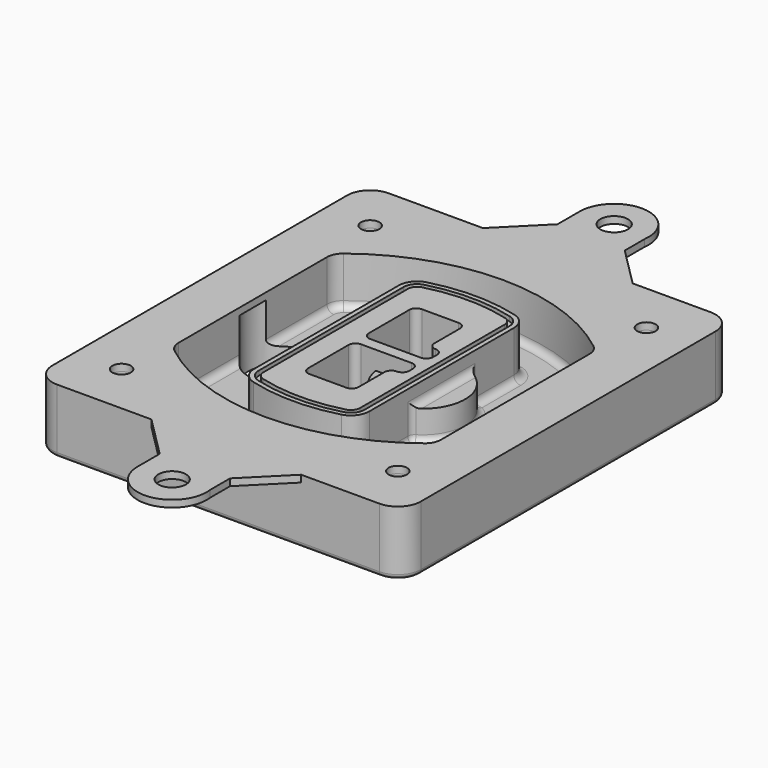
from build123d import *

# Parameters (mm, degrees)
F0_R      = 4
F1_DEPTH  = 25
F2_DEPTH  = 3
F3_DEPTH  = 18
F5_DEPTH  = 21
F6_DEPTH  = 2
F8_DEPTH  = 20
F9_DEPTH  = 16
F10_DEPTH = 25
F7_R      = 6
F7_R_2    = 4
F11_DEPTH = 6
F13_DEPTH = 9
F14_R     = 3
F15_R     = 2
F16_R     = 6
F16_R_2   = 4
F17_DEPTH = 3


with BuildPart() as f1:
    # F0 (on Top) → F1 (new body)
    with BuildSketch(Plane.XY):
        with BuildLine():
            ThreePointArc((-80, -80), (-77.0710678119, -87.0710678119), (-70, -90))
            Line((-70, -90), (70, -90))
            ThreePointArc((70, -90), (77.0710678119, -87.0710678119), (80, -80))
            Line((80, -80), (80, 80))
            ThreePointArc((80, 80), (77.0710678119, 87.0710678119), (70, 90))
            Line((70, 90), (-70, 90))
            ThreePointArc((-70, 90), (-77.0710678119, 87.0710678119), (-80, 80))
            Line((-80, 80), (-80, -80))
        make_face()
        with Locations((-60, -67.5)):
            Circle(F0_R, mode=Mode.SUBTRACT)
        with Locations((60, -67.5)):
            Circle(F0_R, mode=Mode.SUBTRACT)
        with Locations((-60, 67.5)):
            Circle(F0_R, mode=Mode.SUBTRACT)
        with BuildLine():
            ThreePointArc((-64, 40.2934422872), (-62.5820384798, 46.4328484224), (-58.6153846154, 51.3286200352))
            ThreePointArc((-58.6153846154, 51.3286200352), (0, 71.5), (58.6153846154, 51.3286200352))
            ThreePointArc((58.6153846154, 51.3286200352), (62.5820384798, 46.4328484224), (64, 40.2934422872))
            Line((64, 40.2934422872), (64, -40.2934422872))
            ThreePointArc((64, -40.2934422872), (62.5820384798, -46.4328484224), (58.6153846154, -51.3286200352))
            ThreePointArc((58.6153846154, -51.3286200352), (0, -71.5), (-58.6153846154, -51.3286200352))
            ThreePointArc((-58.6153846154, -51.3286200352), (-62.5820384798, -46.4328484224), (-64, -40.2934422872))
            Line((-64, -40.2934422872), (-64, 40.2934422872))
        make_face(mode=Mode.SUBTRACT)
        with Locations((60, 67.5)):
            Circle(F0_R, mode=Mode.SUBTRACT)
        with BuildLine():
            ThreePointArc((58.6153846154, 51.3286200352), (0, 71.5), (-58.6153846154, 51.3286200352))
            ThreePointArc((-58.6153846154, 51.3286200352), (-62.5820384798, 46.4328484224), (-64, 40.2934422872))
            Line((-64, 40.2934422872), (-64, -40.2934422872))
            ThreePointArc((-64, -40.2934422872), (-62.5820384798, -46.4328484224), (-58.6153846154, -51.3286200352))
            ThreePointArc((-58.6153846154, -51.3286200352), (0, -71.5), (58.6153846154, -51.3286200352))
            ThreePointArc((58.6153846154, -51.3286200352), (62.5820384798, -46.4328484224), (64, -40.2934422872))
            Line((64, -40.2934422872), (64, 40.2934422872))
            ThreePointArc((64, 40.2934422872), (62.5820384798, 46.4328484224), (58.6153846154, 51.3286200352))
        make_face()
        with BuildLine():
            Line((-60, -40.2934422872), (-60, 40.2934422872))
            ThreePointArc((-60, 40.2934422872), (-58.9871703427, 44.6787323838), (-56.1538461538, 48.1757121072))
            ThreePointArc((-56.1538461538, 48.1757121072), (0, 67.5), (56.1538461538, 48.1757121072))
            ThreePointArc((56.1538461538, 48.1757121072), (58.9871703427, 44.6787323838), (60, 40.2934422872))
            Line((60, 40.2934422872), (60, -40.2934422872))
            ThreePointArc((60, -40.2934422872), (58.9871703427, -44.6787323838), (56.1538461538, -48.1757121072))
            ThreePointArc((56.1538461538, -48.1757121072), (0, -67.5), (-56.1538461538, -48.1757121072))
            ThreePointArc((-56.1538461538, -48.1757121072), (-58.9871703427, -44.6787323838), (-60, -40.2934422872))
        make_face(mode=Mode.SUBTRACT)
        with BuildLine():
            ThreePointArc((-56.1538461538, 48.1757121072), (-58.9871703427, 44.6787323838), (-60, 40.2934422872))
            Line((-60, 40.2934422872), (-60, -40.2934422872))
            ThreePointArc((-60, -40.2934422872), (-58.9871703427, -44.6787323838), (-56.1538461538, -48.1757121072))
            ThreePointArc((-56.1538461538, -48.1757121072), (0, -67.5), (56.1538461538, -48.1757121072))
            ThreePointArc((56.1538461538, -48.1757121072), (58.9871703427, -44.6787323838), (60, -40.2934422872))
            Line((60, -40.2934422872), (60, 40.2934422872))
            ThreePointArc((60, 40.2934422872), (58.9871703427, 44.6787323838), (56.1538461538, 48.1757121072))
            ThreePointArc((56.1538461538, 48.1757121072), (0, 67.5), (-56.1538461538, 48.1757121072))
        make_face()
        with BuildLine():
            ThreePointArc((54.3076923077, 45.8110311612), (56.2910192399, 43.3631453548), (57, 40.2934422872))
            Line((57, 40.2934422872), (57, -40.2934422872))
            ThreePointArc((57, -40.2934422872), (56.2910192399, -43.3631453548), (54.3076923077, -45.8110311612))
            ThreePointArc((54.3076923077, -45.8110311612), (0, -64.5), (-54.3076923077, -45.8110311612))
            ThreePointArc((-54.3076923077, -45.8110311612), (-56.2910192399, -43.3631453548), (-57, -40.2934422872))
            Line((-57, -40.2934422872), (-57, 40.2934422872))
            ThreePointArc((-57, 40.2934422872), (-56.2910192399, 43.3631453548), (-54.3076923077, 45.8110311612))
            ThreePointArc((-54.3076923077, 45.8110311612), (0, 64.5), (54.3076923077, 45.8110311612))
        make_face(mode=Mode.SUBTRACT)
        with BuildLine():
            Line((57, -40.2934422872), (57, 40.2934422872))
            ThreePointArc((57, 40.2934422872), (56.2910192399, 43.3631453548), (54.3076923077, 45.8110311612))
            ThreePointArc((54.3076923077, 45.8110311612), (0, 64.5), (-54.3076923077, 45.8110311612))
            ThreePointArc((-54.3076923077, 45.8110311612), (-56.2910192399, 43.3631453548), (-57, 40.2934422872))
            Line((-57, 40.2934422872), (-57, -40.2934422872))
            ThreePointArc((-57, -40.2934422872), (-56.2910192399, -43.3631453548), (-54.3076923077, -45.8110311612))
            ThreePointArc((-54.3076923077, -45.8110311612), (0, -64.5), (54.3076923077, -45.8110311612))
            ThreePointArc((54.3076923077, -45.8110311612), (56.2910192399, -43.3631453548), (57, -40.2934422872))
        make_face()
    extrude(amount=-F1_DEPTH)

    # F0 (on Top) → F2 (join)
    with BuildSketch(Plane.XY):
        with BuildLine():
            ThreePointArc((-56.1538461538, 48.1757121072), (-58.9871703427, 44.6787323838), (-60, 40.2934422872))
            Line((-60, 40.2934422872), (-60, -40.2934422872))
            ThreePointArc((-60, -40.2934422872), (-58.9871703427, -44.6787323838), (-56.1538461538, -48.1757121072))
            ThreePointArc((-56.1538461538, -48.1757121072), (0, -67.5), (56.1538461538, -48.1757121072))
            ThreePointArc((56.1538461538, -48.1757121072), (58.9871703427, -44.6787323838), (60, -40.2934422872))
            Line((60, -40.2934422872), (60, 40.2934422872))
            ThreePointArc((60, 40.2934422872), (58.9871703427, 44.6787323838), (56.1538461538, 48.1757121072))
            ThreePointArc((56.1538461538, 48.1757121072), (0, 67.5), (-56.1538461538, 48.1757121072))
        make_face()
        with BuildLine():
            ThreePointArc((54.3076923077, 45.8110311612), (56.2910192399, 43.3631453548), (57, 40.2934422872))
            Line((57, 40.2934422872), (57, -40.2934422872))
            ThreePointArc((57, -40.2934422872), (56.2910192399, -43.3631453548), (54.3076923077, -45.8110311612))
            ThreePointArc((54.3076923077, -45.8110311612), (0, -64.5), (-54.3076923077, -45.8110311612))
            ThreePointArc((-54.3076923077, -45.8110311612), (-56.2910192399, -43.3631453548), (-57, -40.2934422872))
            Line((-57, -40.2934422872), (-57, 40.2934422872))
            ThreePointArc((-57, 40.2934422872), (-56.2910192399, 43.3631453548), (-54.3076923077, 45.8110311612))
            ThreePointArc((-54.3076923077, 45.8110311612), (0, 64.5), (54.3076923077, 45.8110311612))
        make_face(mode=Mode.SUBTRACT)
    extrude(amount=F2_DEPTH)

    # F0 (on Top) → F3 (cut)
    with BuildSketch(Plane.XY):
        with BuildLine():
            Line((57, -40.2934422872), (57, 40.2934422872))
            ThreePointArc((57, 40.2934422872), (56.2910192399, 43.3631453548), (54.3076923077, 45.8110311612))
            ThreePointArc((54.3076923077, 45.8110311612), (0, 64.5), (-54.3076923077, 45.8110311612))
            ThreePointArc((-54.3076923077, 45.8110311612), (-56.2910192399, 43.3631453548), (-57, 40.2934422872))
            Line((-57, 40.2934422872), (-57, -40.2934422872))
            ThreePointArc((-57, -40.2934422872), (-56.2910192399, -43.3631453548), (-54.3076923077, -45.8110311612))
            ThreePointArc((-54.3076923077, -45.8110311612), (0, -64.5), (54.3076923077, -45.8110311612))
            ThreePointArc((54.3076923077, -45.8110311612), (56.2910192399, -43.3631453548), (57, -40.2934422872))
        make_face()
    extrude(amount=-F3_DEPTH, mode=Mode.SUBTRACT)

    # F4 (on face) → F5 (join, through all)
    with BuildSketch(Plane.XY.offset(3)):
        with BuildLine():
            ThreePointArc((-25, -39.2465276821), (-23.3511545998, -44.1109737193), (-19.0842911877, -46.9702398883))
            ThreePointArc((-19.0842911877, -46.9702398883), (0, -49.5), (19.0842911877, -46.9702398883))
            ThreePointArc((19.0842911877, -46.9702398883), (23.3511545998, -44.1109737193), (25, -39.2465276821))
            Line((25, -39.2465276821), (25, 39.2465276821))
            ThreePointArc((25, 39.2465276821), (23.3511545998, 44.1109737193), (19.0842911877, 46.9702398883))
            ThreePointArc((19.0842911877, 46.9702398883), (0, 49.5), (-19.0842911877, 46.9702398883))
            ThreePointArc((-19.0842911877, 46.9702398883), (-23.3511545998, 44.1109737193), (-25, 39.2465276821))
            Line((-25, 39.2465276821), (-25, -39.2465276821))
        make_face()
        with BuildLine():
            ThreePointArc((18.5632183908, 45.0393118368), (21.7633659499, 42.89486221), (23, 39.2465276821))
            Line((23, 39.2465276821), (23, -39.2465276821))
            ThreePointArc((23, -39.2465276821), (21.7633659499, -42.89486221), (18.5632183908, -45.0393118368))
            ThreePointArc((18.5632183908, -45.0393118368), (0, -47.5), (-18.5632183908, -45.0393118368))
            ThreePointArc((-18.5632183908, -45.0393118368), (-21.7633659499, -42.89486221), (-23, -39.2465276821))
            Line((-23, -39.2465276821), (-23, 39.2465276821))
            ThreePointArc((-23, 39.2465276821), (-21.7633659499, 42.89486221), (-18.5632183908, 45.0393118368))
            ThreePointArc((-18.5632183908, 45.0393118368), (0, 47.5), (18.5632183908, 45.0393118368))
        make_face(mode=Mode.SUBTRACT)
        with BuildLine():
            Line((23, -39.2465276821), (23, 39.2465276821))
            ThreePointArc((23, 39.2465276821), (21.7633659499, 42.89486221), (18.5632183908, 45.0393118368))
            ThreePointArc((18.5632183908, 45.0393118368), (0, 47.5), (-18.5632183908, 45.0393118368))
            ThreePointArc((-18.5632183908, 45.0393118368), (-21.7633659499, 42.89486221), (-23, 39.2465276821))
            Line((-23, 39.2465276821), (-23, -39.2465276821))
            ThreePointArc((-23, -39.2465276821), (-21.7633659499, -42.89486221), (-18.5632183908, -45.0393118368))
            ThreePointArc((-18.5632183908, -45.0393118368), (0, -47.5), (18.5632183908, -45.0393118368))
            ThreePointArc((18.5632183908, -45.0393118368), (21.7633659499, -42.89486221), (23, -39.2465276821))
        make_face()
        with BuildLine():
            ThreePointArc((18.0421455939, 43.1083837852), (20.1755772999, 41.6787507007), (21, 39.2465276821))
            Line((21, 39.2465276821), (21, -39.2465276821))
            ThreePointArc((21, -39.2465276821), (20.1755772999, -41.6787507007), (18.0421455939, -43.1083837852))
            ThreePointArc((18.0421455939, -43.1083837852), (0, -45.5), (-18.0421455939, -43.1083837852))
            ThreePointArc((-18.0421455939, -43.1083837852), (-20.1755772999, -41.6787507007), (-21, -39.2465276821))
            Line((-21, -39.2465276821), (-21, 39.2465276821))
            ThreePointArc((-21, 39.2465276821), (-20.1755772999, 41.6787507007), (-18.0421455939, 43.1083837852))
            ThreePointArc((-18.0421455939, 43.1083837852), (0, 45.5), (18.0421455939, 43.1083837852))
        make_face(mode=Mode.SUBTRACT)
        with BuildLine():
            Line((21, -39.2465276821), (21, 39.2465276821))
            ThreePointArc((21, 39.2465276821), (20.1755772999, 41.6787507007), (18.0421455939, 43.1083837852))
            ThreePointArc((18.0421455939, 43.1083837852), (0, 45.5), (-18.0421455939, 43.1083837852))
            ThreePointArc((-18.0421455939, 43.1083837852), (-20.1755772999, 41.6787507007), (-21, 39.2465276821))
            Line((-21, 39.2465276821), (-21, -39.2465276821))
            ThreePointArc((-21, -39.2465276821), (-20.1755772999, -41.6787507007), (-18.0421455939, -43.1083837852))
            ThreePointArc((-18.0421455939, -43.1083837852), (0, -45.5), (18.0421455939, -43.1083837852))
            ThreePointArc((18.0421455939, -43.1083837852), (20.1755772999, -41.6787507007), (21, -39.2465276821))
        make_face()
        with BuildLine():
            Line((-8, -2.5), (14, -2.5))
            ThreePointArc((14, -2.5), (16.1213203436, -3.3786796564), (17, -5.5))
            Line((17, -5.5), (17, -7.5))
            ThreePointArc((17, -7.5), (16.1213203436, -9.6213203436), (14, -10.5))
            ThreePointArc((14, -10.5), (11.8786796564, -11.3786796564), (11, -13.5))
            Line((11, -13.5), (11, -27.5))
            ThreePointArc((11, -27.5), (10.1213203436, -29.6213203436), (8, -30.5))
            Line((8, -30.5), (-8, -30.5))
            ThreePointArc((-8, -30.5), (-10.1213203436, -29.6213203436), (-11, -27.5))
            Line((-11, -27.5), (-11, -5.5))
            ThreePointArc((-11, -5.5), (-10.1213203436, -3.3786796564), (-8, -2.5))
        make_face(mode=Mode.SUBTRACT)
        with BuildLine():
            ThreePointArc((-8, 2.5), (-10.1213203436, 3.3786796564), (-11, 5.5))
            Line((-11, 5.5), (-11, 27.5))
            ThreePointArc((-11, 27.5), (-10.1213203436, 29.6213203436), (-8, 30.5))
            Line((-8, 30.5), (8, 30.5))
            ThreePointArc((8, 30.5), (10.1213203436, 29.6213203436), (11, 27.5))
            Line((11, 27.5), (11, 13.5))
            ThreePointArc((11, 13.5), (11.8786796564, 11.3786796564), (14, 10.5))
            ThreePointArc((14, 10.5), (16.1213203436, 9.6213203436), (17, 7.5))
            Line((17, 7.5), (17, 5.5))
            ThreePointArc((17, 5.5), (16.1213203436, 3.3786796564), (14, 2.5))
            Line((14, 2.5), (-8, 2.5))
        make_face(mode=Mode.SUBTRACT)
    extrude(amount=-F5_DEPTH)

    # F4 (on face) → F6 (cut)
    with BuildSketch(Plane.XY.offset(3)):
        with BuildLine():
            Line((23, -39.2465276821), (23, 39.2465276821))
            ThreePointArc((23, 39.2465276821), (21.7633659499, 42.89486221), (18.5632183908, 45.0393118368))
            ThreePointArc((18.5632183908, 45.0393118368), (0, 47.5), (-18.5632183908, 45.0393118368))
            ThreePointArc((-18.5632183908, 45.0393118368), (-21.7633659499, 42.89486221), (-23, 39.2465276821))
            Line((-23, 39.2465276821), (-23, -39.2465276821))
            ThreePointArc((-23, -39.2465276821), (-21.7633659499, -42.89486221), (-18.5632183908, -45.0393118368))
            ThreePointArc((-18.5632183908, -45.0393118368), (0, -47.5), (18.5632183908, -45.0393118368))
            ThreePointArc((18.5632183908, -45.0393118368), (21.7633659499, -42.89486221), (23, -39.2465276821))
        make_face()
        with BuildLine():
            ThreePointArc((18.0421455939, 43.1083837852), (20.1755772999, 41.6787507007), (21, 39.2465276821))
            Line((21, 39.2465276821), (21, -39.2465276821))
            ThreePointArc((21, -39.2465276821), (20.1755772999, -41.6787507007), (18.0421455939, -43.1083837852))
            ThreePointArc((18.0421455939, -43.1083837852), (0, -45.5), (-18.0421455939, -43.1083837852))
            ThreePointArc((-18.0421455939, -43.1083837852), (-20.1755772999, -41.6787507007), (-21, -39.2465276821))
            Line((-21, -39.2465276821), (-21, 39.2465276821))
            ThreePointArc((-21, 39.2465276821), (-20.1755772999, 41.6787507007), (-18.0421455939, 43.1083837852))
            ThreePointArc((-18.0421455939, 43.1083837852), (0, 45.5), (18.0421455939, 43.1083837852))
        make_face(mode=Mode.SUBTRACT)
    extrude(amount=-F6_DEPTH, mode=Mode.SUBTRACT)

    # F7 (on face) → F8 (join)
    with BuildSketch(Plane(origin=(0, 0, -25), x_dir=(1, 0, 0), z_dir=(0, 0, -1))):
        with BuildLine():
            ThreePointArc((3.28842436, 0), (16.7567035675, 13.4682792075), (30.224982775, 0))
            Line((30.224982775, 0), (35.224982775, 0))
            ThreePointArc((35.224982775, 0), (16.7567035675, 18.4682792075), (-1.71157564, 0))
            Line((-1.71157564, 0), (3.28842436, 0))
        make_face()
        with BuildLine():
            Line((3.28842436, 0), (30.224982775, 0))
            ThreePointArc((30.224982775, 0), (16.7567035675, 13.4682792075), (3.28842436, 0))
        make_face()
        with BuildLine():
            ThreePointArc((3.28842436, 0), (16.7567035675, -13.4682792075), (30.224982775, 0))
            Line((30.224982775, 0), (3.28842436, 0))
        make_face()
        with BuildLine():
            Line((35.224982775, 0), (30.224982775, 0))
            ThreePointArc((30.224982775, 0), (16.7567035675, -13.4682792075), (3.28842436, 0))
            Line((3.28842436, 0), (-1.71157564, 0))
            ThreePointArc((-1.71157564, 0), (16.7567035675, -18.4682792075), (35.224982775, 0))
        make_face()
    extrude(amount=-F8_DEPTH)

    # F7 (on face) → F9 (cut)
    with BuildSketch(Plane(origin=(0, 0, -25), x_dir=(1, 0, 0), z_dir=(0, 0, -1))):
        with BuildLine():
            Line((3.28842436, 0), (30.224982775, 0))
            ThreePointArc((30.224982775, 0), (16.7567035675, 13.4682792075), (3.28842436, 0))
        make_face()
        with BuildLine():
            ThreePointArc((3.28842436, 0), (16.7567035675, -13.4682792075), (30.224982775, 0))
            Line((30.224982775, 0), (3.28842436, 0))
        make_face()
    extrude(amount=-F9_DEPTH, mode=Mode.SUBTRACT)

    # F7 (on face) → F10 (cut)
    with BuildSketch(Plane(origin=(0, 0, -25), x_dir=(1, 0, 0), z_dir=(0, 0, -1))):
        with BuildLine():
            Line((-59.0318229325, 0), (-32.0952645175, 0))
            ThreePointArc((-32.0952645175, 0), (-45.563543725, 13.4682792075), (-59.0318229325, 0))
        make_face()
        with BuildLine():
            ThreePointArc((-59.0318229325, 0), (-45.563543725, -13.4682792075), (-32.0952645175, 0))
            Line((-32.0952645175, 0), (-59.0318229325, 0))
        make_face()
    extrude(amount=-F10_DEPTH, mode=Mode.SUBTRACT)

    # F7 (on face) → F11 (cut)
    with BuildSketch(Plane(origin=(0, 0, -25), x_dir=(1, 0, 0), z_dir=(0, 0, -1))):
        with Locations((60, -67.5)):
            Circle(F7_R)
        with Locations((60, -67.5)):
            Circle(F7_R_2, mode=Mode.SUBTRACT)
        with Locations((60, -67.5)):
            Circle(F7_R)
        with Locations((60, -67.5)):
            Circle(F7_R_2, mode=Mode.SUBTRACT)
        with Locations((-60, -67.5)):
            Circle(F7_R)
        with Locations((-60, -67.5)):
            Circle(F7_R_2, mode=Mode.SUBTRACT)
        with Locations((-60, -67.5)):
            Circle(F7_R)
        with Locations((-60, -67.5)):
            Circle(F7_R_2, mode=Mode.SUBTRACT)
        with Locations((-60, 67.5)):
            Circle(F7_R)
        with Locations((-60, 67.5)):
            Circle(F7_R_2, mode=Mode.SUBTRACT)
        with Locations((-60, 67.5)):
            Circle(F7_R)
        with Locations((-60, 67.5)):
            Circle(F7_R_2, mode=Mode.SUBTRACT)
        with Locations((60, 67.5)):
            Circle(F7_R)
        with Locations((60, 67.5)):
            Circle(F7_R_2, mode=Mode.SUBTRACT)
        with Locations((60, 67.5)):
            Circle(F7_R)
        with Locations((60, 67.5)):
            Circle(F7_R_2, mode=Mode.SUBTRACT)
    extrude(amount=-F11_DEPTH, mode=Mode.SUBTRACT)

    # F12 (on face) → F13 (cut, through all)
    with BuildSketch(Plane(origin=(0, 0, -9), x_dir=(1, 0, 0), z_dir=(0, 0, -1))):
        with BuildLine():
            Line((11, 13.5), (11, 17.5481537753))
            ThreePointArc((11, 17.5481537753), (2.5696536419, 11.8239143813), (-1.5415842455, 2.5))
            Line((-1.5415842455, 2.5), (3.5224848595, 2.5))
            ThreePointArc((3.5224848595, 2.5), (6.1857188154, 8.3455872281), (11.2536447004, 12.2927168648))
            ThreePointArc((11.2536447004, 12.2927168648), (11.0640958889, 12.8831798879), (11, 13.5))
        make_face()
        with BuildLine():
            ThreePointArc((11.2536447004, -12.2927168648), (6.1857188154, -8.3455872281), (3.5224848595, -2.5))
            Line((3.5224848595, -2.5), (-1.5415842455, -2.5))
            ThreePointArc((-1.5415842455, -2.5), (2.5696536419, -11.8239143813), (11, -17.5481537753))
            Line((11, -17.5481537753), (11, -13.5))
            ThreePointArc((11, -13.5), (11.0640958889, -12.8831798879), (11.2536447004, -12.2927168648))
        make_face()
        with BuildLine():
            ThreePointArc((11.2536447004, 12.2927168648), (6.1857188154, 8.3455872281), (3.5224848595, 2.5))
            Line((3.5224848595, 2.5), (14, 2.5))
            ThreePointArc((14, 2.5), (16.1213203436, 3.3786796564), (17, 5.5))
            Line((17, 5.5), (17, 7.5))
            ThreePointArc((17, 7.5), (16.1213203436, 9.6213203436), (14, 10.5))
            ThreePointArc((14, 10.5), (12.3601599782, 10.9878446101), (11.2536447004, 12.2927168648))
        make_face()
        with BuildLine():
            Line((14, -2.5), (3.5224848595, -2.5))
            ThreePointArc((3.5224848595, -2.5), (6.1857188154, -8.3455872281), (11.2536447004, -12.2927168648))
            ThreePointArc((11.2536447004, -12.2927168648), (12.3601599782, -10.9878446101), (14, -10.5))
            ThreePointArc((14, -10.5), (16.1213203436, -9.6213203436), (17, -7.5))
            Line((17, -7.5), (17, -5.5))
            ThreePointArc((17, -5.5), (16.1213203436, -3.3786796564), (14, -2.5))
        make_face()
    extrude(amount=F13_DEPTH, mode=Mode.SUBTRACT)

    # F14
    f14_edges = [f1.edges().sort_by_distance(p)[0] for p in [
        (-57, -23.703476, -18),
        (-57, 23.703476, -18),
        (25, 0, -5),
        (25, 16.526506, -11.5),
        (25, -16.526506, -11.5),
        (25, -27.886517, -18),
        (35.224983, 0, -18),
    ]]
    fillet(f14_edges, radius=F14_R)

    # F15
    f15_edges = [f1.edges().sort_by_distance(p)[0] for p in [
        (0, -90, -25),
    ]]
    fillet(f15_edges, radius=F15_R)

    # F16 (on face) → F17 (join, through all)
    with BuildSketch(Plane.XY):
        with BuildLine():
            Line((-29.0218641258, 90), (36.0118960431, 90))
            Line((36.0118960431, 90), (18.8468409469, 107.1650550961))
            Line((18.8468409469, 107.1650550961), (18.8468409469, 118.0196946044))
            ThreePointArc((18.8468409469, 118.0196946044), (4.9704624104, 134.9671402761), (-11.0218641258, 120))
            Line((-11.0218641258, 120), (-11.0218641258, 108))
            Line((-11.0218641258, 108), (-29.0218641258, 90))
        make_face()
        with Locations((3.9781358742, 120)):
            Circle(F16_R, mode=Mode.SUBTRACT)
        with BuildLine():
            Line((18.8468409469, -107.1650550961), (36.0118960431, -90))
            Line((36.0118960431, -90), (-29.0218641258, -90))
            Line((-29.0218641258, -90), (-11.0218641258, -108))
            Line((-11.0218641258, -108), (-11.0218641258, -120))
            ThreePointArc((-11.0218641258, -120), (4.9704624104, -134.9671402761), (18.8468409469, -118.0196946044))
            Line((18.8468409469, -118.0196946044), (18.8468409469, -107.1650550961))
        make_face()
        with Locations((3.9781358742, -120)):
            Circle(F16_R, mode=Mode.SUBTRACT)
        with BuildLine():
            ThreePointArc((80, 80), (77.0710678119, 87.0710678119), (70, 90))
            Line((70, 90), (36.0118960431, 90))
            Line((36.0118960431, 90), (-29.0218641258, 90))
            Line((-29.0218641258, 90), (-70, 90))
            ThreePointArc((-70, 90), (-77.0710678119, 87.0710678119), (-80, 80))
            Line((-80, 80), (-80, -80))
            ThreePointArc((-80, -80), (-77.0710678119, -87.0710678119), (-70, -90))
            Line((-70, -90), (-29.0218641258, -90))
            Line((-29.0218641258, -90), (36.0118960431, -90))
            Line((36.0118960431, -90), (70, -90))
            ThreePointArc((70, -90), (77.0710678119, -87.0710678119), (80, -80))
            Line((80, -80), (80, 80))
        make_face()
        with Locations((-60, -67.5)):
            Circle(F16_R_2, mode=Mode.SUBTRACT)
        with Locations((60, -67.5)):
            Circle(F16_R_2, mode=Mode.SUBTRACT)
        with Locations((-60, 67.5)):
            Circle(F16_R_2, mode=Mode.SUBTRACT)
        with BuildLine():
            ThreePointArc((-60, 40.2934422872), (-58.9871703427, 44.6787323838), (-56.1538461538, 48.1757121072))
            ThreePointArc((-56.1538461538, 48.1757121072), (0, 67.5), (56.1538461538, 48.1757121072))
            ThreePointArc((56.1538461538, 48.1757121072), (58.9871703427, 44.6787323838), (60, 40.2934422872))
            Line((60, 40.2934422872), (60, -40.2934422872))
            ThreePointArc((60, -40.2934422872), (58.9871703427, -44.6787323838), (56.1538461538, -48.1757121072))
            ThreePointArc((56.1538461538, -48.1757121072), (0, -67.5), (-56.1538461538, -48.1757121072))
            ThreePointArc((-56.1538461538, -48.1757121072), (-58.9871703427, -44.6787323838), (-60, -40.2934422872))
            Line((-60, -40.2934422872), (-60, 40.2934422872))
        make_face(mode=Mode.SUBTRACT)
        with Locations((60, 67.5)):
            Circle(F16_R_2, mode=Mode.SUBTRACT)
    extrude(amount=F17_DEPTH)


solid = f1.part
